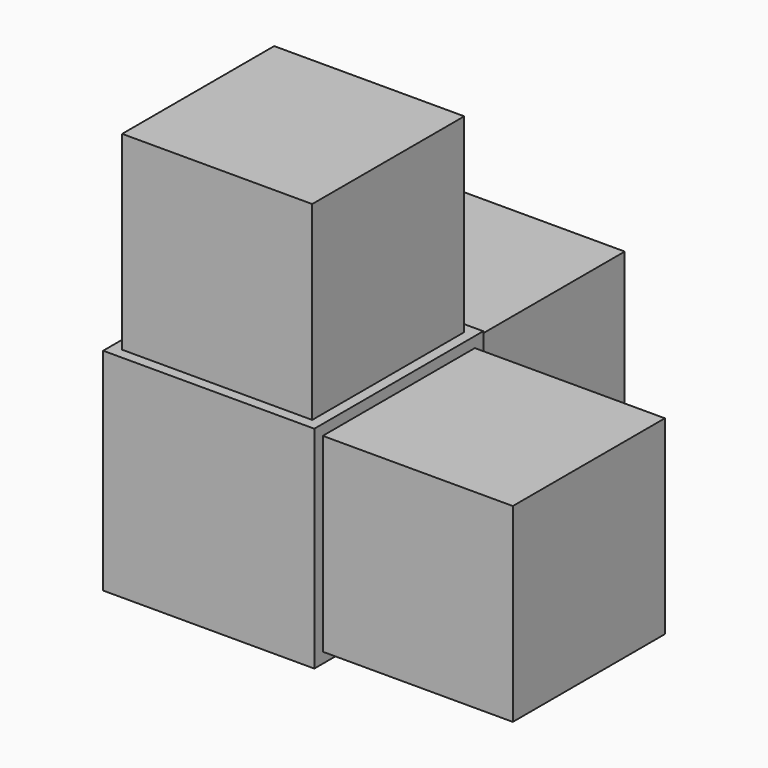
from build123d import *

# Parameters (mm, degrees)
BOX003_W     = 18
BOX003_H     = 18
BOX003_DEPTH = 18
BOX002_W     = 18
BOX002_H     = 18
BOX002_DEPTH = 18
BOX001_W     = 18
BOX001_H     = 18
BOX001_DEPTH = 18
BOX_W        = 20
BOX_H        = 20
BOX_DEPTH    = 20


with BuildPart() as z:
    # Box003 → Box003 (new body)
    with BuildSketch(Plane(origin=(1, 1, 20), x_dir=(1, 0, 0), z_dir=(0, 0, 1))):
        with Locations((9, 9)):
            Rectangle(BOX003_W, BOX003_H)
    extrude(amount=BOX003_DEPTH)


with BuildPart() as y:
    # Box002 → Box002 (new body)
    with BuildSketch(Plane(origin=(1, 20, 1), x_dir=(1, 0, 0), z_dir=(0, 0, 1))):
        with Locations((9, 9)):
            Rectangle(BOX002_W, BOX002_H)
    extrude(amount=BOX002_DEPTH)


with BuildPart() as x:
    # Box001 → Box001 (new body)
    with BuildSketch(Plane(origin=(20, 1, 1), x_dir=(1, 0, 0), z_dir=(0, 0, 1))):
        with Locations((9, 9)):
            Rectangle(BOX001_W, BOX001_H)
    extrude(amount=BOX001_DEPTH)


with BuildPart() as unionxyz:
    # Box → Box (new body)
    with BuildSketch(Plane.XY):
        with Locations((10, 10)):
            Rectangle(BOX_W, BOX_H)
    extrude(amount=BOX_DEPTH)

    # Fusion: union X
    add(x.part)

    # Fusion001: union Y
    add(y.part)

    # Fusion002: union Z
    add(z.part)


solid = unionxyz.part
